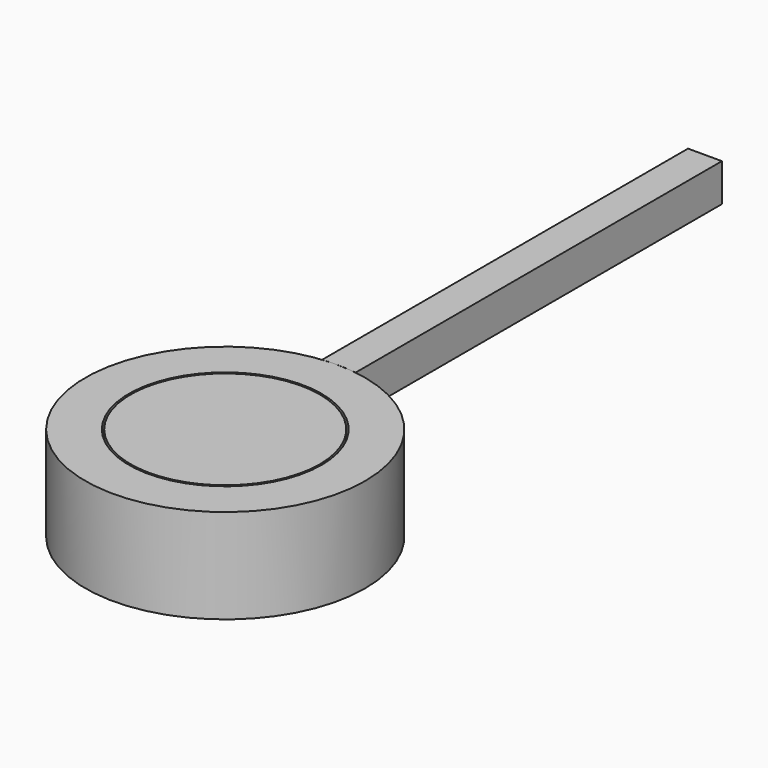
from build123d import *

# Parameters (mm, degrees)
F0_R      = 25
F1_DEPTH  = 25
F0_R_2    = 37
F0_R_3    = 25.5
F2_DEPTH  = 25
F4_DEPTH  = 10
F4_FACE_W = 8.972482
F4_FACE_H = 10
F5_DEPTH  = 48.5
F6_R      = 12.852711
F7_DEPTH  = 10
F8_W      = 3.733484
F8_H      = 4.122663
F8_W_2    = 4.48018
F8_H_2    = 4.029326
F8_W_3    = 11.5738
F8_H_3    = 3.080124
F9_DEPTH  = 25


with BuildPart() as f1:
    # F0 (on Top) → F1 (new body)
    with BuildSketch(Plane.XY):
        Circle(F0_R)
    extrude(amount=F1_DEPTH)

    # F6 (on face) → F7 (join)
    with BuildSketch(Plane(origin=(0, 0, 0), x_dir=(1, 0, 0), z_dir=(0, 0, -1))):
        Circle(F6_R)
    extrude(amount=F7_DEPTH)

    # F8 (on face) → F9 (cut)
    with BuildSketch(Plane(origin=(0, 0, -10), x_dir=(1, 0, 0), z_dir=(0, 0, -1))):
        with Locations((-3.999566, 2.061332)):
            Rectangle(F8_W, F8_H)
        with Locations((3.934088, 2.014663)):
            Rectangle(F8_W_2, F8_H_2)
        with Locations((0.387278, -4.231007)):
            Rectangle(F8_W_3, F8_H_3)
    extrude(amount=-F9_DEPTH, mode=Mode.SUBTRACT)


with BuildPart() as f2:
    # F0 (on Top) → F2 (new body)
    with BuildSketch(Plane.XY):
        Circle(F0_R_2)
        Circle(F0_R_3, mode=Mode.SUBTRACT)
    extrude(amount=F2_DEPTH)


with BuildPart() as f4:
    # F3 (on face) → F4 (new body)
    with BuildSketch(Plane.XY.offset(25)):
        with BuildLine():
            ThreePointArc((-3.815888, 36.802704), (0.675337, 36.993836), (5.156594, 36.638907))
            Line((5.156594, 36.638907), (5.156594, 109.242164))
            Line((5.156594, 109.242164), (-3.815888, 109.242164))
            Line((-3.815888, 109.242164), (-3.815888, 36.802704))
        make_face()
    extrude(amount=-F4_DEPTH)

    # F4_face (on face) → F5 (join)
    with BuildSketch(Plane(origin=(0.670353, 109.242164, 20), x_dir=(-1, 0, 0), z_dir=(0, 1, 0))):
        Rectangle(F4_FACE_W, F4_FACE_H)
    extrude(amount=F5_DEPTH)


solid = Compound([f1.part, f2.part, f4.part])
